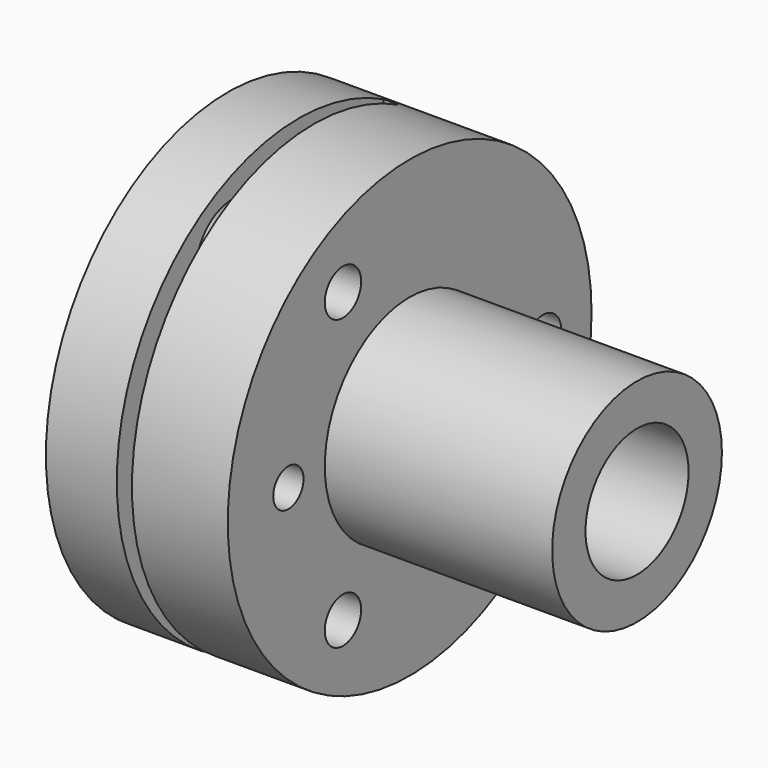
from build123d import *

# Parameters (mm, degrees)
F2_R          = 1.5
F3_DEPTH      = 27.001
F4_R          = 3
F4_R_2        = 1.5
F5_DEPTH      = 7
F6_W          = 1
F6_H          = 45
F7_DEPTH      = 7
F7_DEPTH_BACK = 25
F8_R          = 1.25
F9_DEPTH      = 27.001
F10_R         = 1.6
F10_R_2       = 1.25
F11_DEPTH     = 5


with BuildPart() as f1:
    # F0 (on Top) → F1 (revolve)
    with BuildSketch(Plane.XY):
        Polygon((0, 15), (0, 4.25), (27, 4.25), (27, 7), (12, 7), (12, 15), align=None)
    revolve(axis=Axis((49.570793286, 0, 0), (1, 0, 0)))

    # F2 (on face) → F3 (cut, through all)
    with BuildSketch(Plane(origin=(0, 0, 0), x_dir=(0, -1, 0), z_dir=(-1, 0, 0))):
        with Locations((5.5, 9.5262794416)):
            Circle(F2_R)
        with Locations((-11, 0)):
            Circle(F2_R)
        with Locations((5.5, -9.5262794416)):
            Circle(F2_R)
    extrude(amount=-F3_DEPTH, mode=Mode.SUBTRACT)

    # F4 (on face) → F5 (cut)
    with BuildSketch(Plane(origin=(0, 0, 0), x_dir=(0, -1, 0), z_dir=(-1, 0, 0))):
        with Locations((5.5, 9.5262794416)):
            Circle(F4_R)
        with Locations((5.5, 9.5262794416)):
            Circle(F4_R_2, mode=Mode.SUBTRACT)
        with Locations((-11, 0)):
            Circle(F4_R)
        with Locations((-11, 0)):
            Circle(F4_R_2, mode=Mode.SUBTRACT)
        with Locations((5.5, -9.5262794416)):
            Circle(F4_R)
        with Locations((5.5, -9.5262794416)):
            Circle(F4_R_2, mode=Mode.SUBTRACT)
    extrude(amount=-F5_DEPTH, mode=Mode.SUBTRACT)

    # F6 (on Front) → F7 (cut, two sides)
    with BuildSketch(Plane.XZ) as f7_sk:
        with Locations((5.1783517702, 0)):
            Rectangle(F6_W, F6_H)
    extrude(amount=-F7_DEPTH, mode=Mode.SUBTRACT)
    extrude(f7_sk.sketch, amount=F7_DEPTH_BACK, mode=Mode.SUBTRACT)

    # F8 (on face) → F9 (cut, through all)
    with BuildSketch(Plane(origin=(0, 0, 0), x_dir=(0, -1, 0), z_dir=(-1, 0, 0))):
        with Locations((10, 0)):
            Circle(F8_R)
    extrude(amount=-F9_DEPTH, mode=Mode.SUBTRACT)

    # F10 (on face) → F11 (cut)
    with BuildSketch(Plane(origin=(0, 0, 0), x_dir=(0, -1, 0), z_dir=(-1, 0, 0))):
        with Locations((10, 0)):
            Circle(F10_R)
        with Locations((10, 0)):
            Circle(F10_R_2, mode=Mode.SUBTRACT)
    extrude(amount=-F11_DEPTH, mode=Mode.SUBTRACT)


solid = f1.part
